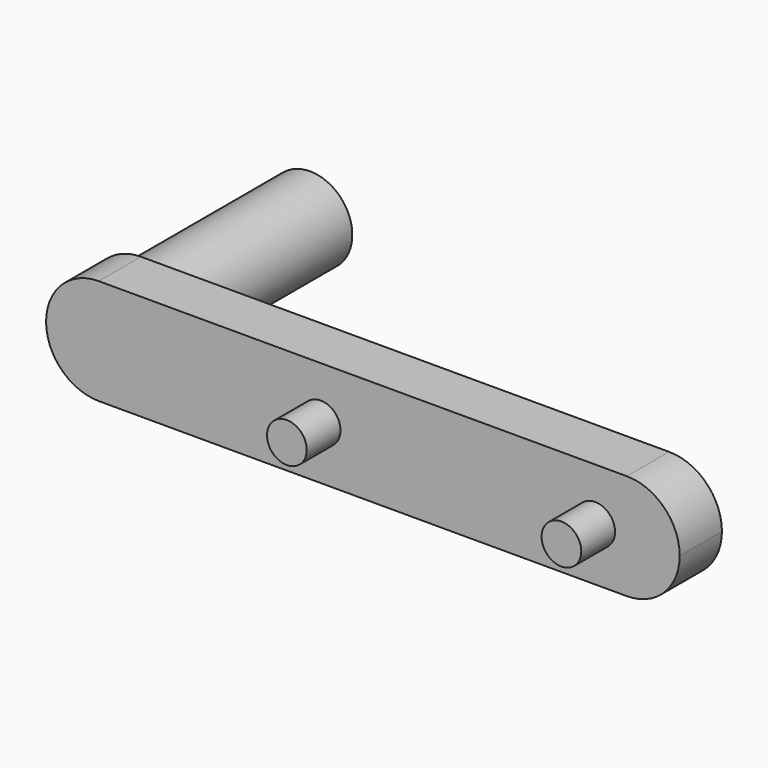
from build123d import *

# Parameters (mm, degrees)
F1_DEPTH = 3.175
F2_R     = 2.54
F3_DEPTH = 12.7
F4_R     = 1.1938
F5_DEPTH = 2.54


with BuildPart() as f1:
    # F0 (on Front) → F1 (new body)
    with BuildSketch(Plane.XZ):
        with BuildLine():
            Line((26.523346, 6.35), (-5.226654, 6.35))
            ThreePointArc((-5.226654, 6.35), (-7.471718, 5.420064), (-8.401654, 3.175))
            ThreePointArc((-8.401654, 3.175), (-7.471718, 0.929936), (-5.226654, 0))
            Line((-5.226654, 0), (26.523346, 0))
            ThreePointArc((26.523346, 0), (28.76841, 0.929936), (29.698346, 3.175))
            ThreePointArc((29.698346, 3.175), (28.76841, 5.420064), (26.523346, 6.35))
        make_face()
    extrude(amount=F1_DEPTH)

    # F2 (on face) → F3 (join)
    with BuildSketch(Plane(origin=(0, 0, 0), x_dir=(-1, 0, 0), z_dir=(0, 1, 0))):
        with Locations((5.226654, 3.175)):
            Circle(F2_R)
    extrude(amount=F3_DEPTH)

    # F4 (on face) → F5 (join)
    with BuildSketch(Plane.XZ.offset(3.175)):
        with Locations((8.108346, 3.175)):
            Circle(F4_R)
        with Locations((24.618346, 3.175)):
            Circle(F4_R)
    extrude(amount=F5_DEPTH)


solid = f1.part
